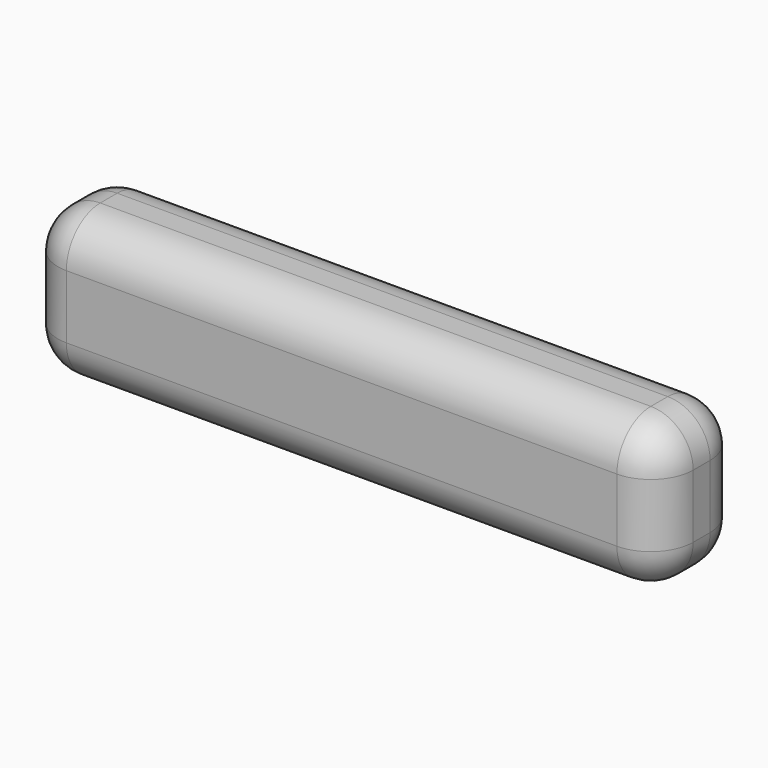
from build123d import *

# Parameters (mm, degrees)
F0_W     = 76.2
F0_H     = 12.7
F1_DEPTH = 17.78
F2_R     = 5.08
F3_R     = 5.08
F4_R     = 5.08


with BuildPart() as f1:
    # F0 (on Top) → F1 (new body)
    with BuildSketch(Plane.XY):
        Rectangle(F0_W, F0_H)
    extrude(amount=F1_DEPTH)

    # F2
    f2_edges = [f1.edges().sort_by_distance(p)[0] for p in [
        (0, 6.35, 17.78),
        (0, -6.35, 17.78),
        (0, 6.35, 0),
        (0, -6.35, 0),
    ]]
    fillet(f2_edges, radius=F2_R)

    # F3
    f3_edges = [f1.edges().sort_by_distance(p)[0] for p in [
        (-38.1, 0, 17.78),
        (-38.1, -4.862102, 16.292102),
        (-38.1, 4.862102, 16.292102),
        (-38.1, 6.35, 8.89),
        (-38.1, -6.35, 8.89),
        (-38.1, -4.862102, 1.487898),
        (-38.1, 0, 0),
        (-38.1, 4.862102, 1.487898),
    ]]
    fillet(f3_edges, radius=F3_R)

    # F4
    f4_edges = [f1.edges().sort_by_distance(p)[0] for p in [
        (38.1, -4.862102, 16.292102),
        (38.1, 0, 17.78),
        (38.1, 4.862102, 16.292102),
        (38.1, 6.35, 8.89),
        (38.1, 4.862102, 1.487898),
        (38.1, 0, 0),
        (38.1, -4.862102, 1.487898),
        (38.1, -6.35, 8.89),
    ]]
    fillet(f4_edges, radius=F4_R)


solid = f1.part
